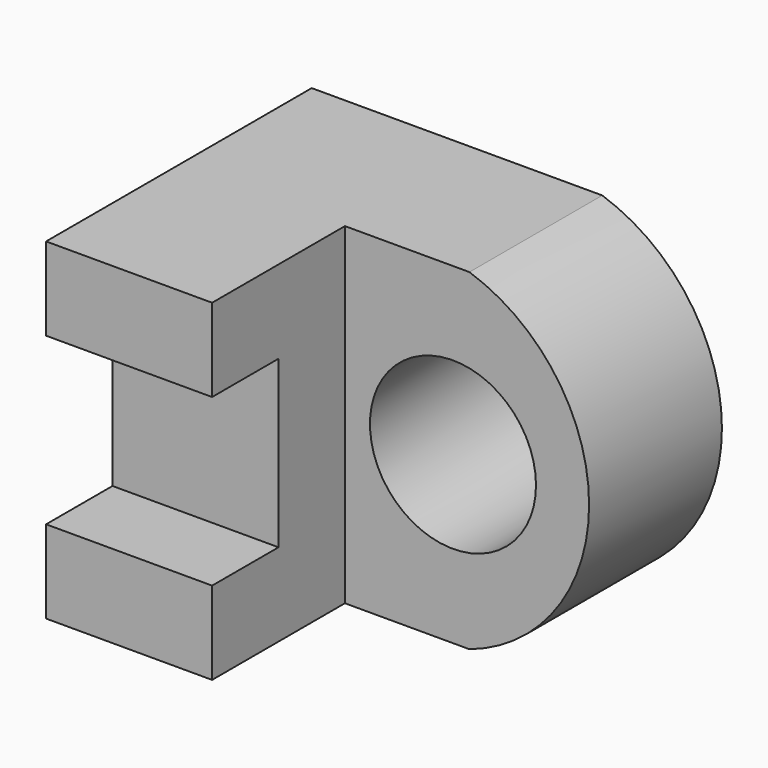
from build123d import *

# Parameters (mm, degrees)
F0_W      = 31.75
F0_H      = 25.4
F1_DEPTH  = 25.4
F2_W      = 6.35
F2_H      = 12.7
F3_DEPTH  = 25.4
F4_DEPTH  = 25.4
F5_W      = 19.05
F5_H      = 12.7
F6_DEPTH  = 25.4
F7_R      = 6.35
F8_DEPTH  = 12.7
F10_DEPTH = 25.4


with BuildPart() as f1:
    # F0 (on Front) → F1 (new body)
    with BuildSketch(Plane.XZ):
        with Locations((15.875, 12.7)):
            Rectangle(F0_W, F0_H)
    extrude(amount=F1_DEPTH)

    # F2 (on face) → F3 (cut)
    with BuildSketch(Plane.YZ.offset(31.75)):
        with Locations((-22.225, 12.7)):
            Rectangle(F2_W, F2_H)
    extrude(amount=-F3_DEPTH, mode=Mode.SUBTRACT)

    # F4 (cut): a face of the model
    f4_faces = [f1.faces().sort_by_distance(p)[0] for p in [
        (6.35, -22.225, 12.7),
    ]]
    extrude(f4_faces, amount=-F4_DEPTH, mode=Mode.SUBTRACT)

    # F5 (on face) → F6 (cut)
    with BuildSketch(Plane.XY.offset(25.4)):
        with Locations((22.225, -19.05)):
            Rectangle(F5_W, F5_H)
    extrude(amount=-F6_DEPTH, mode=Mode.SUBTRACT)

    # F7 (on face) → F8 (cut, through all)
    with BuildSketch(Plane.XZ.offset(12.7)):
        with Locations((20.9659710526, 12.7)):
            Circle(F7_R)
    extrude(amount=-F8_DEPTH, mode=Mode.SUBTRACT)

    # F9 (on face) → F10 (cut)
    with BuildSketch(Plane.XZ.offset(12.7)):
        with BuildLine():
            ThreePointArc((22.225, 25.4), (31.3787710318, 12.7), (22.225, 0))
            Line((22.225, 0), (31.75, 0))
            Line((31.75, 0), (31.75, 25.4))
            Line((31.75, 25.4), (22.225, 25.4))
        make_face()
    extrude(amount=-F10_DEPTH, mode=Mode.SUBTRACT)


solid = f1.part
